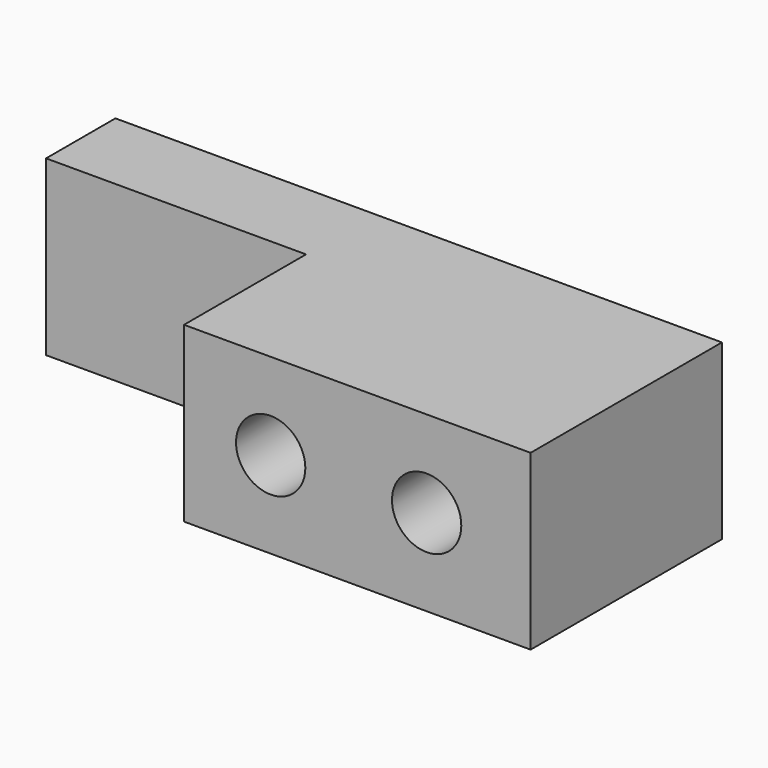
from build123d import *

# Parameters (mm, degrees)
F0_W     = 35
F0_H     = 10
F1_DEPTH = 13.8
F2_W     = 15
F2_H     = 10
F3_DEPTH = 8.8
F4_R     = 2
F5_DEPTH = 13.8


with BuildPart() as f1:
    # F0 (on Front) → F1 (new body)
    with BuildSketch(Plane.XZ):
        Rectangle(F0_W, F0_H)
    extrude(amount=F1_DEPTH)

    # F2 (on face) → F3 (cut)
    with BuildSketch(Plane.XZ.offset(13.8)):
        with Locations((-10, 0)):
            Rectangle(F2_W, F2_H)
    extrude(amount=-F3_DEPTH, mode=Mode.SUBTRACT)

    # F4 (on face) → F5 (cut)
    with BuildSketch(Plane.XZ.offset(13.8)):
        with Locations((2.5, 0)):
            Circle(F4_R)
        with Locations((11.5, 0)):
            Circle(F4_R)
    extrude(amount=-F5_DEPTH, mode=Mode.SUBTRACT)


solid = f1.part
